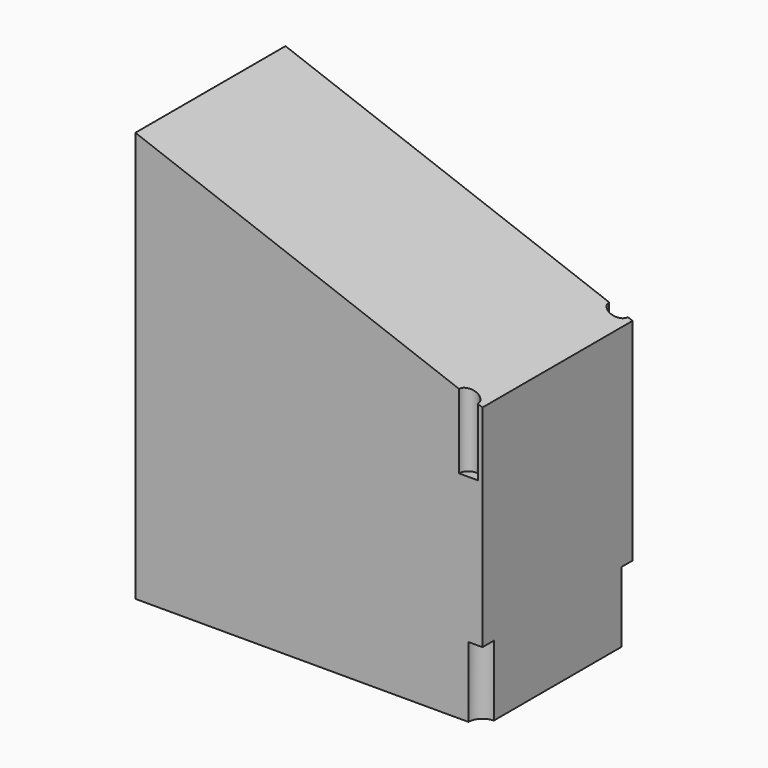
from build123d import *

# Parameters (mm, degrees)
F1_DEPTH = 4000
F2_R     = 300
F3_DEPTH = 1500
F5_R     = 200
F6_DEPTH = 1586.8108108108


with BuildPart() as f1:
    # F0 (on Front) → F1 (new body)
    with BuildSketch(Plane.XZ):
        Polygon((-7400, 0), (0, 0), (0, 6000), (-7400, 8750), align=None)
    extrude(amount=-F1_DEPTH)

    # F2 (on face) → F3 (cut)
    with BuildSketch(Plane(origin=(0, 0, 0), x_dir=(1, 0, 0), z_dir=(0, 0, -1))):
        Circle(F2_R)
        with Locations((0, -4000)):
            Circle(F2_R)
    extrude(amount=-F3_DEPTH, mode=Mode.SUBTRACT)

    # F5 (on offset) → F6 (cut, up to face)
    with BuildSketch(Plane(origin=(0, 0, 4600), x_dir=(1, 0, 0), z_dir=(0, 0, -1))):
        with Locations((-300, 0)):
            Circle(F5_R)
        with Locations((-300, -4000)):
            Circle(F5_R)
    extrude(amount=-F6_DEPTH, mode=Mode.SUBTRACT)


solid = f1.part
